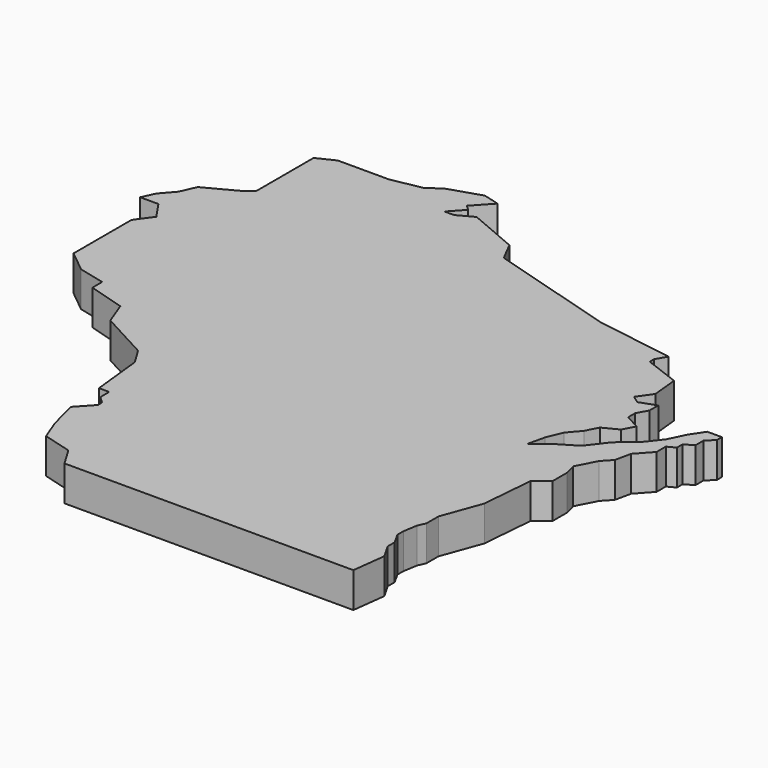
from build123d import *

# Parameters (mm, degrees)
F1_DEPTH = 19.05


with BuildPart() as f1:
    # F0 (on Top) → F1 (new body)
    with BuildSketch(Plane.XY):
        Polygon((127.374873, 0), (130.079165, 0), (283.87782, 0), (286.131769, 18.14894), (281.604767, 26.116442), (281.604767, 30.82451), (278.164268, 36.981218), (278.164268, 41.146047), (279.43182, 48.751391), (281.242609, 52.735142), (281.242609, 60.883723), (289.029032, 82.251117), (291.432261, 110.667914), (298.728049, 116.189055), (298.728049, 126.121819), (297.107786, 132.371083), (302.621841, 143.031597), (307.216913, 147.99425), (309.054911, 156.63293), (316.406995, 164.720222), (316.406995, 170.969486), (320.634454, 173.175111), (320.634454, 176.851138), (325.413287, 179.975778), (325.413287, 185.26645), (329.513514, 189.175025), (329.513514, 192.59502), (321.59701, 192.59502), (316.711307, 185.26645), (312.314153, 176.227897), (305.962741, 168.166474), (296.191305, 159.86076), (288.129896, 149.356484), (277.137041, 142.760769), (269.075632, 136.165068), (271.274179, 145.692199), (274.694204, 153.997913), (280.312747, 160.593614), (283.732742, 167.18933), (291.794181, 171.342179), (295.214176, 177.693605), (290.902208, 180.015432), (287.152767, 182.090744), (287.152767, 186.732173), (290.328473, 192.59502), (290.328473, 198.457882), (281.534195, 195.282161), (277.381331, 198.213592), (282.837977, 205.943848), (281.40533, 220.303819), (262.460262, 227.495939), (262.460262, 230.302602), (265.793204, 236.091375), (223.517641, 242.757231), (154.819116, 263.218462), (149.376005, 273.818195), (122.446977, 285.277367), (113.852613, 280.69371), (108.695991, 280.69371), (115.571484, 288.142145), (112.78723, 290.71223), (121.705609, 300.373787), (112.993173, 302.752584), (95.231473, 297.022998), (88.642456, 292.152852), (72.02667, 289.001584), (44.238199, 289.001584), (34.797754, 284.43718), (34.797754, 245.544836), (30.27996, 242.009178), (13.190903, 232.973576), (9.448506, 224.560991), (3.278016, 217.509001), (0, 210.457027), (9.889254, 210.457027), (16.500488, 200.760543), (10.109629, 191.945568), (10.109629, 152.718902), (21.735432, 143.29727), (35.956949, 139.817506), (35.956949, 133.20598), (55.791546, 127.290398), (60.663197, 114.41531), (87.10932, 100.14832), (92.637829, 91.069408), (95.655568, 62.981203), (101.226784, 62.981203), (101.226784, 56.945719), (104.940929, 53.463712), (104.940929, 50.678104), (97.048372, 42.089149), (101.226784, 26.071908), (105.637327, 14.697347), (121.170625, 10.366562), align=None)
    extrude(amount=F1_DEPTH)


solid = f1.part
